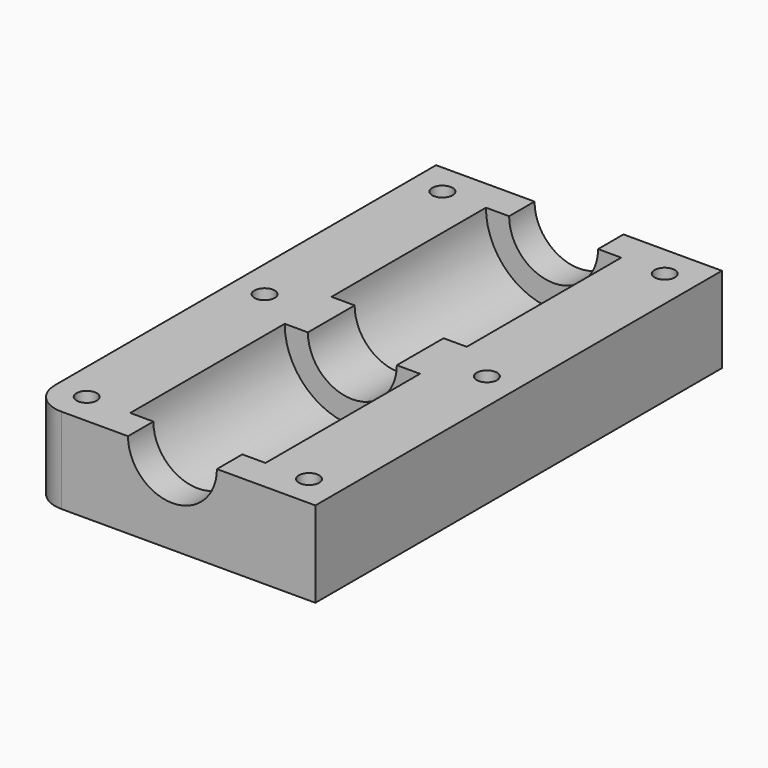
from build123d import *

# Parameters (mm, degrees)
PAD_DEPTH       = 80
SKETCH001_R     = 1.6
POCKET_DEPTH    = 13.501
SKETCH002_R     = 3
POCKET001_DEPTH = 5
SKETCH003_R     = 10.65
POCKET002_DEPTH = 30.4
SKETCH004_R     = 10.65
POCKET003_DEPTH = 30.4
FILLET_R        = 5


with BuildPart() as part:
    # Sketch → Pad (new body)
    with BuildSketch(Plane.XZ):
        with BuildLine():
            Line((22.5, 0), (22.5, -13.5))
            Line((22.5, -13.5), (-22.5, -13.5))
            Line((-22.5, -13.5), (-22.5, 0))
            Line((-22.5, 0), (-7, 0))
            ThreePointArc((-7, 0), (0, -7), (7, 0))
            Line((7, 0), (22.5, 0))
        make_face()
    extrude(amount=PAD_DEPTH)

    # Sketch001 → Pocket (cut, through all)
    with BuildSketch(Plane.XY):
        with Locations((-17.5, -5)):
            Circle(SKETCH001_R)
        with Locations((-17.5, -40)):
            Circle(SKETCH001_R)
        with Locations((-17.5, -75)):
            Circle(SKETCH001_R)
        with Locations((17.5, -5)):
            Circle(SKETCH001_R)
        with Locations((17.5, -40)):
            Circle(SKETCH001_R)
        with Locations((17.5, -75)):
            Circle(SKETCH001_R)
    extrude(amount=-POCKET_DEPTH, mode=Mode.SUBTRACT)

    # Sketch002 (on DatumPlane) → Pocket001 (cut)
    with BuildSketch(Plane.XY.offset(-13.5)):
        with Locations((-17.5, -5)):
            Circle(SKETCH002_R)
        with Locations((-17.5, -40)):
            Circle(SKETCH002_R)
        with Locations((-17.5, -75)):
            Circle(SKETCH002_R)
        with Locations((17.5, -5)):
            Circle(SKETCH002_R)
        with Locations((17.5, -40)):
            Circle(SKETCH002_R)
        with Locations((17.5, -75)):
            Circle(SKETCH002_R)
    extrude(amount=POCKET001_DEPTH, mode=Mode.SUBTRACT)

    # Sketch003 (on DatumPlane) → Pocket002 (cut)
    with BuildSketch(Plane.XZ.offset(5)):
        Circle(SKETCH003_R)
    extrude(amount=POCKET002_DEPTH, mode=Mode.SUBTRACT)

    # Sketch004 (on DatumPlane) → Pocket003 (cut)
    with BuildSketch(Plane.XZ.offset(75)):
        Circle(SKETCH004_R)
    extrude(amount=-POCKET003_DEPTH, mode=Mode.SUBTRACT)

    # Fillet
    fillet_edges = [part.edges().sort_by_distance(p)[0] for p in [
        (-22.5, -80, -6.75),
    ]]
    fillet(fillet_edges, radius=FILLET_R)


solid = part.part
